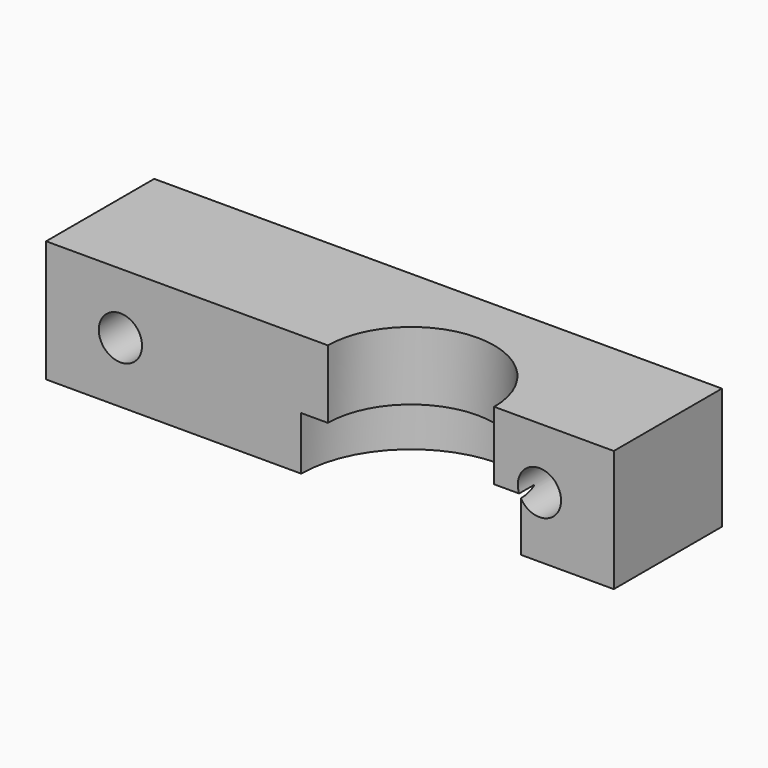
from build123d import *

# Parameters (mm, degrees)
F1_DEPTH = 10
F2_DEPTH = 6.3
F3_R     = 1.6
F4_DEPTH = 25
F5_DEPTH = 1
F6_DEPTH = 0.25


with BuildPart() as f1:
    # F0 (on Top) → F1 (new body)
    with BuildSketch(Plane.XY):
        with BuildLine():
            ThreePointArc((-8.125, 0), (0, 8.125), (8.125, 0))
            Line((8.125, 0), (15, 0))
            Line((15, 0), (15, 10))
            Line((15, 10), (-27, 10))
            Line((-27, 10), (-27, 0))
            Line((-27, 0), (-8.125, 0))
        make_face()
    extrude(amount=-F1_DEPTH)

    # F0 (on Top) → F2 (join)
    with BuildSketch(Plane.XY):
        with BuildLine():
            ThreePointArc((-6.15, 0), (0, 6.15), (6.15, 0))
            Line((6.15, 0), (8.125, 0))
            ThreePointArc((8.125, 0), (0, 8.125), (-8.125, 0))
            Line((-8.125, 0), (-6.15, 0))
        make_face()
    extrude(amount=-F2_DEPTH)

    # F3 (on face) → F4 (cut)
    with BuildSketch(Plane(origin=(0, 10, 0), x_dir=(-1, 0, 0), z_dir=(0, 1, 0))):
        with Locations((-9.5, -5.5)):
            Circle(F3_R)
        with BuildLine():
            ThreePointArc((23.1, -5.5), (21.5, -3.9), (19.9, -5.5))
            ThreePointArc((19.9, -5.5), (21.5, -7.1), (23.1, -5.5))
        make_face()
    extrude(amount=-F4_DEPTH, mode=Mode.SUBTRACT)

    # F0 (on Top) → F5 (cut)
    with BuildSketch(Plane.XY):
        with BuildLine():
            ThreePointArc((-8.125, 0), (0, 8.125), (8.125, 0))
            Line((8.125, 0), (15, 0))
            Line((15, 0), (15, 10))
            Line((15, 10), (-27, 10))
            Line((-27, 10), (-27, 0))
            Line((-27, 0), (-8.125, 0))
        make_face()
        with BuildLine():
            ThreePointArc((-6.15, 0), (0, 6.15), (6.15, 0))
            Line((6.15, 0), (8.125, 0))
            ThreePointArc((8.125, 0), (0, 8.125), (-8.125, 0))
            Line((-8.125, 0), (-6.15, 0))
        make_face()
    extrude(amount=-F5_DEPTH, mode=Mode.SUBTRACT)

    # F6 (cut): a face of the model
    f6_faces = [f1.faces().sort_by_distance(p)[0] for p in [
        (-7.1375, 0.1815853566, -6.3),
    ]]
    extrude(f6_faces, amount=-F6_DEPTH, mode=Mode.SUBTRACT)


solid = f1.part
